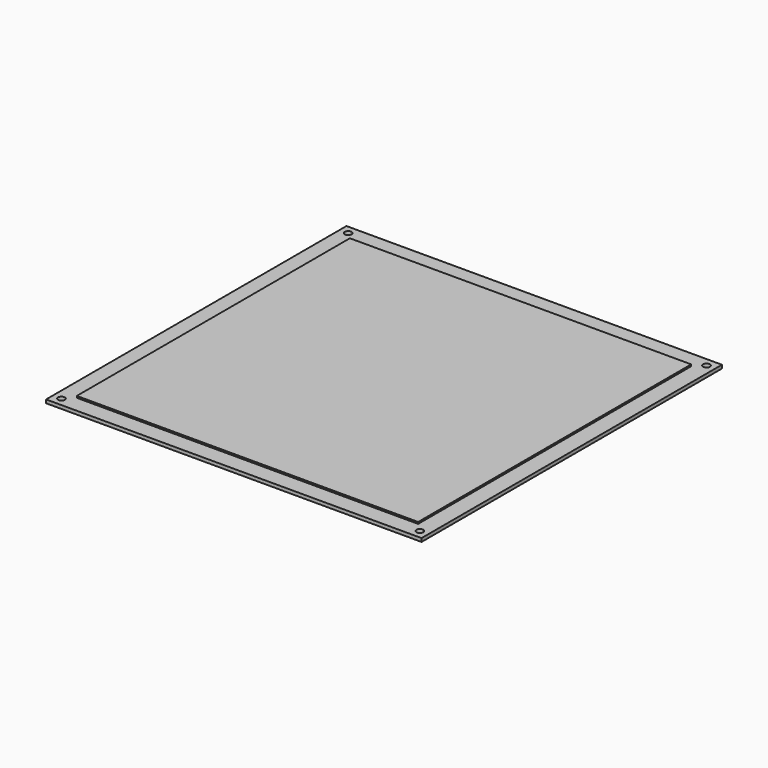
from build123d import *

# Parameters (mm, degrees)
F0_W     = 220
F0_H     = 220
F1_DEPTH = 2
F2_R     = 2
F3_DEPTH = 25
F4_W     = 200
F4_H     = 200
F5_DEPTH = 1


with BuildPart() as f1:
    # F0 (on Top) → F1 (new body)
    with BuildSketch(Plane.XY):
        Rectangle(F0_W, F0_H)
    extrude(amount=F1_DEPTH)

    # F2 (on face) → F3 (cut)
    with BuildSketch(Plane.XY.offset(2)):
        with Locations((-105, -105)):
            Circle(F2_R)
        with Locations((105, -105)):
            Circle(F2_R)
        with Locations((105, 105)):
            Circle(F2_R)
        with Locations((-105, 105)):
            Circle(F2_R)
    extrude(amount=-F3_DEPTH, mode=Mode.SUBTRACT)

    # F4 (on face) → F5 (join)
    with BuildSketch(Plane.XY.offset(2)):
        Rectangle(F4_W, F4_H)
    extrude(amount=F5_DEPTH)


solid = f1.part
